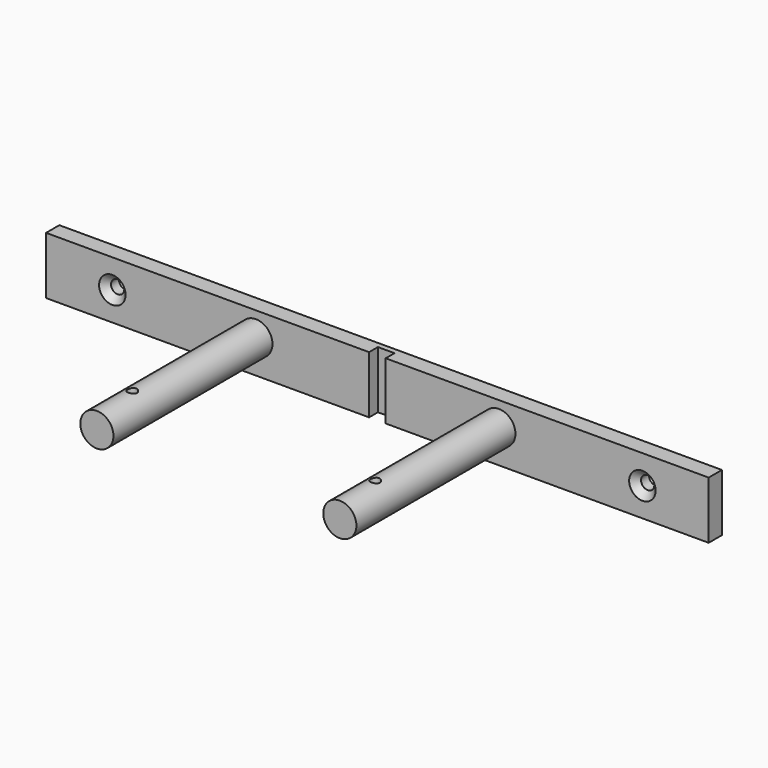
from build123d import *

# Parameters (mm, degrees)
F0_W           = 190.5
F0_H           = 16.51
F1_DEPTH       = 4.7625
F2_R           = 4.7625
F3_DEPTH       = 57.15
F5_D           = 3.81
F5_CSINK_D     = 7.62
F5_CSINK_ANGLE = 90
F6_W           = 4.7625
F6_H           = 16.51
F7_DEPTH       = 3.175
F8_R           = 1.3462
F9_DEPTH       = 16.511


with BuildPart() as f1:
    # F0 (on Front) → F1 (new body)
    with BuildSketch(Plane.XZ):
        Rectangle(F0_W, F0_H)
    extrude(amount=F1_DEPTH)

    # F2 (on face) → F3 (join)
    with BuildSketch(Plane.XZ.offset(4.7625)):
        with Locations((-34.925, 1.27)):
            Circle(F2_R)
        with Locations((34.925, 1.27)):
            Circle(F2_R)
    extrude(amount=F3_DEPTH)

    # F5 (through all)
    with Locations(Plane.XZ.offset(4.7625)):
        with Locations((-76.2, 0), (76.2, 0)):
            CounterSinkHole(F5_D / 2, F5_CSINK_D / 2, counter_sink_angle=F5_CSINK_ANGLE)

    # F6 (on face) → F7 (cut)
    with BuildSketch(Plane.XZ.offset(4.7625)):
        Rectangle(F6_W, F6_H)
    extrude(amount=-F7_DEPTH, mode=Mode.SUBTRACT)

    # F8 (on face) → F9 (cut, through all)
    with BuildSketch(Plane.XY.offset(8.255)):
        with Locations((-34.925, -49.2125)):
            Circle(F8_R)
        with Locations((34.925, -49.2125)):
            Circle(F8_R)
    extrude(amount=-F9_DEPTH, mode=Mode.SUBTRACT)


solid = f1.part
